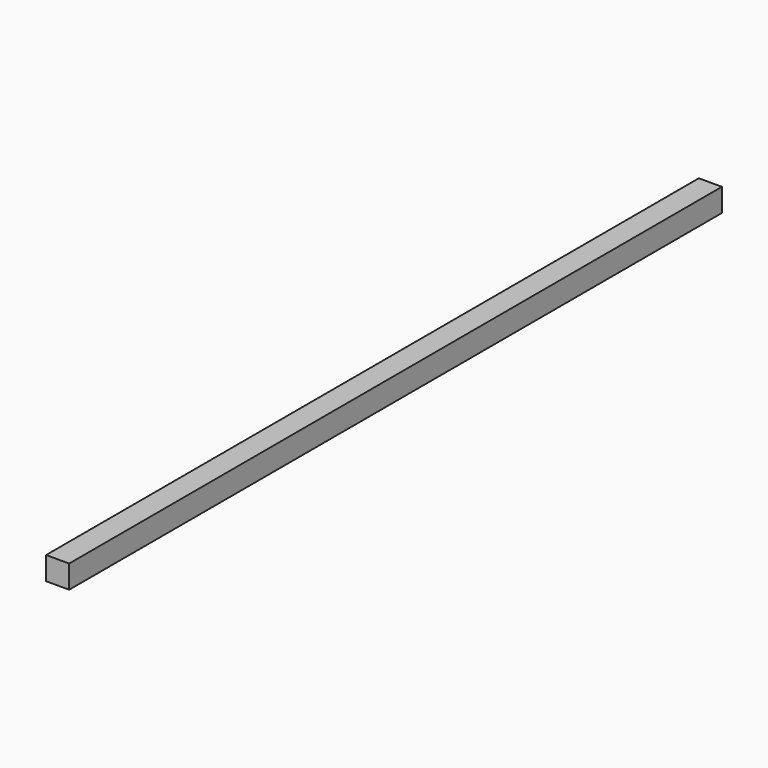
from build123d import *

# Parameters (mm, degrees)
SKETCH_W  = 14
SKETCH_H  = 14
PAD_DEPTH = 495


with BuildPart() as part:
    # Sketch → Pad (new body)
    with BuildSketch(Plane.XZ):
        with Locations((7, 7)):
            Rectangle(SKETCH_W, SKETCH_H)
    extrude(amount=-PAD_DEPTH)


solid = part.part
